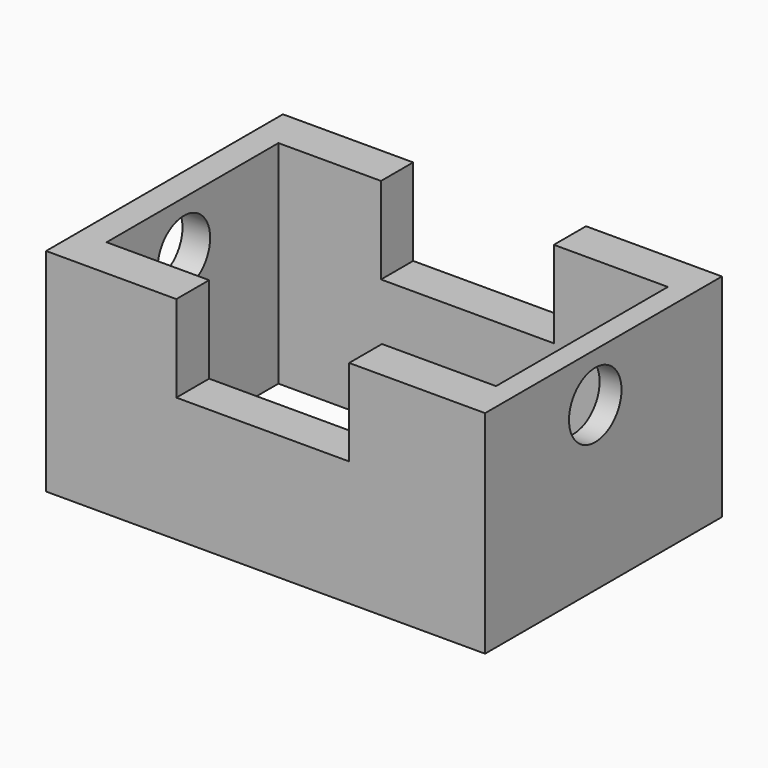
from build123d import *

# Parameters (mm, degrees)
F0_W     = 151.0983854532
F0_H     = 101.8927358091
F0_W_2   = 134.0441703796
F0_H_2   = 73.9419609308
F1_DEPTH = 72.898
F2_W     = 59.4862736762
F2_H     = 29.8526170533
F3_DEPTH = 161.29
F4_R     = 11.294462473
F5_DEPTH = 227.838


with BuildPart() as f1:
    # F0 (on Top) → F1 (new body)
    with BuildSketch(Plane.XY):
        with Locations((-0.5501508713, 9.1656837612)):
            Rectangle(F0_W, F0_H)
        with Locations((0.444740057, 9.3090310693)):
            Rectangle(F0_W_2, F0_H_2, mode=Mode.SUBTRACT)
    extrude(amount=F1_DEPTH)

    # F2 (on face) → F3 (cut)
    with BuildSketch(Plane.XZ.offset(41.7806841433)):
        with Locations((-1.5259776264, 57.9716914734)):
            Rectangle(F2_W, F2_H)
    extrude(amount=-F3_DEPTH, mode=Mode.SUBTRACT)

    # F4 (on face) → F5 (cut)
    with BuildSketch(Plane.YZ.offset(74.9990418553)):
        with Locations((5.608974956, 56.1325512826)):
            Circle(F4_R)
    extrude(amount=-F5_DEPTH, mode=Mode.SUBTRACT)


solid = f1.part
